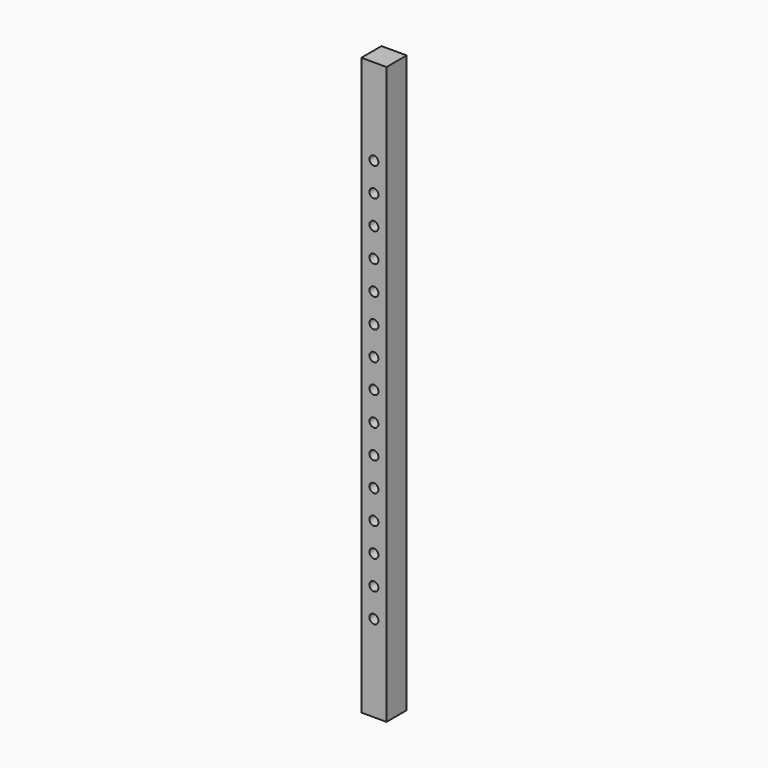
from build123d import *

# Parameters (mm, degrees)
F0_W     = 88.9
F0_H     = 2032
F0_R     = 15.875
F1_DEPTH = 88.9


with BuildPart() as f1:
    # F0 (on Front) → F1 (new body)
    with BuildSketch(Plane.XZ):
        Rectangle(F0_W, F0_H)
        with Locations((0, -711.2)):
            Circle(F0_R, mode=Mode.SUBTRACT)
        with Locations((0, -609.6)):
            Circle(F0_R, mode=Mode.SUBTRACT)
        with Locations((0, -508)):
            Circle(F0_R, mode=Mode.SUBTRACT)
        with Locations((0, -406.4)):
            Circle(F0_R, mode=Mode.SUBTRACT)
        with Locations((0, -304.8)):
            Circle(F0_R, mode=Mode.SUBTRACT)
        with Locations((0, -203.2)):
            Circle(F0_R, mode=Mode.SUBTRACT)
        with Locations((0, -101.6)):
            Circle(F0_R, mode=Mode.SUBTRACT)
        Circle(F0_R, mode=Mode.SUBTRACT)
        with Locations((0, 101.6)):
            Circle(F0_R, mode=Mode.SUBTRACT)
        with Locations((0, 203.2)):
            Circle(F0_R, mode=Mode.SUBTRACT)
        with Locations((0, 304.8)):
            Circle(F0_R, mode=Mode.SUBTRACT)
        with Locations((0, 406.4)):
            Circle(F0_R, mode=Mode.SUBTRACT)
        with Locations((0, 508)):
            Circle(F0_R, mode=Mode.SUBTRACT)
        with Locations((0, 609.6)):
            Circle(F0_R, mode=Mode.SUBTRACT)
        with Locations((0, 711.2)):
            Circle(F0_R, mode=Mode.SUBTRACT)
    extrude(amount=-F1_DEPTH)


solid = f1.part
